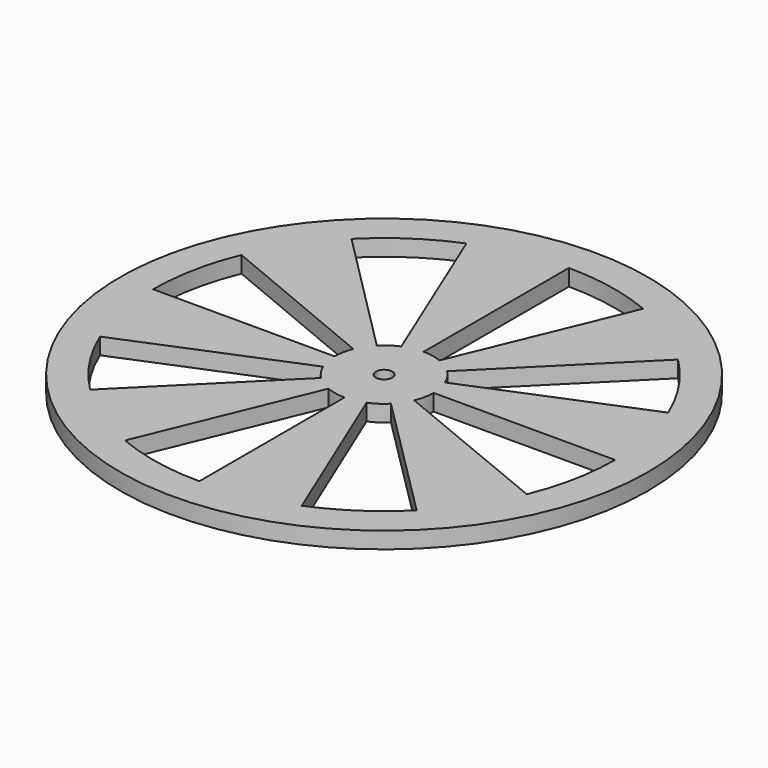
from build123d import *

# Parameters (mm, degrees)
F0_R     = 50.8
F0_R_2   = 1.5875
F1_DEPTH = 3.175


with BuildPart() as f1:
    # F0 (on Top) → F1 (new body)
    with BuildSketch(Plane.XY):
        Circle(F0_R)
        with BuildLine():
            ThreePointArc((-41.064383, 17.015257), (-36.954333, 24.701817), (-31.423275, 31.438516))
            ThreePointArc((-31.423275, 31.438516), (-24.688376, 36.963314), (-17.0053, 41.068507))
            ThreePointArc((-17.0053, 41.068507), (-8.669122, 43.596431), (0, 44.45))
            ThreePointArc((0, 44.45), (8.674407, 43.59538), (17.015257, 41.064383))
            ThreePointArc((17.015257, 41.064383), (24.701817, 36.954333), (31.438516, 31.423275))
            ThreePointArc((31.438516, 31.423275), (36.963314, 24.688376), (41.068507, 17.0053))
            ThreePointArc((41.068507, 17.0053), (43.596431, 8.669122), (44.45, 0))
            ThreePointArc((44.45, 0), (43.59538, -8.674407), (41.064383, -17.015257))
            ThreePointArc((41.064383, -17.015257), (36.954333, -24.701817), (31.423275, -31.438516))
            ThreePointArc((31.423275, -31.438516), (24.688376, -36.963314), (17.0053, -41.068507))
            ThreePointArc((17.0053, -41.068507), (8.669122, -43.596431), (0, -44.45))
            ThreePointArc((0, -44.45), (-8.674407, -43.59538), (-17.015257, -41.064383))
            ThreePointArc((-17.015257, -41.064383), (-24.701817, -36.954333), (-31.438516, -31.423275))
            ThreePointArc((-31.438516, -31.423275), (-36.963314, -24.688376), (-41.068507, -17.0053))
            ThreePointArc((-41.068507, -17.0053), (-43.596431, -8.669122), (-44.45, 0))
            ThreePointArc((-44.45, 0), (-43.59538, 8.674407), (-41.064383, 17.015257))
        make_face(mode=Mode.SUBTRACT)
        with BuildLine():
            ThreePointArc((-3.7084, 8.773448), (-5.337867, 7.888777), (-6.76507, 6.705181))
            ThreePointArc((-6.76507, 6.705181), (-7.940926, 5.259973), (-8.812953, 3.613513))
            ThreePointArc((-8.812953, 3.613513), (-9.345293, 1.8415), (-9.525, 0))
            ThreePointArc((-9.525, 0), (-9.335221, -1.891895), (-8.773448, -3.7084))
            ThreePointArc((-8.773448, -3.7084), (-7.890963, -5.334634), (-6.710723, -6.759573))
            ThreePointArc((-6.710723, -6.759573), (-5.288032, -7.922269), (-3.668572, -8.790177))
            ThreePointArc((-3.668572, -8.790177), (-1.870721, -9.339488), (0, -9.525))
            ThreePointArc((0, -9.525), (1.866893, -9.340253), (3.661366, -8.793181))
            ThreePointArc((3.661366, -8.793181), (5.292302, -7.919417), (6.72354, -6.746824))
            ThreePointArc((6.72354, -6.746824), (7.893839, -5.330379), (8.770406, -3.71559))
            ThreePointArc((8.770406, -3.71559), (9.334445, -1.89572), (9.525, 0))
            ThreePointArc((9.525, 0), (9.334445, 1.89572), (8.770406, 3.71559))
            ThreePointArc((8.770406, 3.71559), (7.886588, 5.3411), (6.705181, 6.76507))
            ThreePointArc((6.705181, 6.76507), (5.259973, 7.940926), (3.613513, 8.812953))
            ThreePointArc((3.613513, 8.812953), (1.8415, 9.345293), (0, 9.525))
            ThreePointArc((0, 9.525), (-1.891895, 9.335221), (-3.7084, 8.773448))
        make_face()
        Circle(F0_R_2, mode=Mode.SUBTRACT)
        with BuildLine():
            Line((-6.76507, 6.705181), (-31.423275, 31.438516))
            ThreePointArc((-31.423275, 31.438516), (-36.954333, 24.701817), (-41.064383, 17.015257))
            Line((-41.064383, 17.015257), (-8.812953, 3.613513))
            ThreePointArc((-8.812953, 3.613513), (-7.940926, 5.259973), (-6.76507, 6.705181))
        make_face()
        with BuildLine():
            ThreePointArc((0, 44.45), (-8.669122, 43.596431), (-17.0053, 41.068507))
            Line((-17.0053, 41.068507), (-3.7084, 8.773448))
            ThreePointArc((-3.7084, 8.773448), (-1.891895, 9.335221), (0, 9.525))
            Line((0, 9.525), (0, 44.45))
        make_face()
        with BuildLine():
            ThreePointArc((31.438516, 31.423275), (24.701817, 36.954333), (17.015257, 41.064383))
            Line((17.015257, 41.064383), (3.613513, 8.812953))
            ThreePointArc((3.613513, 8.812953), (5.259973, 7.940926), (6.705181, 6.76507))
            Line((6.705181, 6.76507), (31.438516, 31.423275))
        make_face()
        with BuildLine():
            ThreePointArc((44.45, 0), (43.596431, 8.669122), (41.068507, 17.0053))
            Line((41.068507, 17.0053), (8.770406, 3.71559))
            ThreePointArc((8.770406, 3.71559), (9.334445, 1.89572), (9.525, 0))
            Line((9.525, 0), (44.45, 0))
        make_face()
        with BuildLine():
            ThreePointArc((31.423275, -31.438516), (36.954333, -24.701817), (41.064383, -17.015257))
            Line((41.064383, -17.015257), (8.770406, -3.71559))
            ThreePointArc((8.770406, -3.71559), (7.893839, -5.330379), (6.72354, -6.746824))
            Line((6.72354, -6.746824), (31.423275, -31.438516))
        make_face()
        with BuildLine():
            Line((0, -9.525), (0, -44.45))
            ThreePointArc((0, -44.45), (8.669122, -43.596431), (17.0053, -41.068507))
            Line((17.0053, -41.068507), (3.661366, -8.793181))
            ThreePointArc((3.661366, -8.793181), (1.866893, -9.340253), (0, -9.525))
        make_face()
        with BuildLine():
            Line((-6.710723, -6.759573), (-31.438516, -31.423275))
            ThreePointArc((-31.438516, -31.423275), (-24.701817, -36.954333), (-17.015257, -41.064383))
            Line((-17.015257, -41.064383), (-3.668572, -8.790177))
            ThreePointArc((-3.668572, -8.790177), (-5.288032, -7.922269), (-6.710723, -6.759573))
        make_face()
        with BuildLine():
            Line((-9.525, 0), (-44.45, 0))
            ThreePointArc((-44.45, 0), (-43.596431, -8.669122), (-41.068507, -17.0053))
            Line((-41.068507, -17.0053), (-8.773448, -3.7084))
            ThreePointArc((-8.773448, -3.7084), (-9.335221, -1.891895), (-9.525, 0))
        make_face()
    extrude(amount=F1_DEPTH)


solid = f1.part
